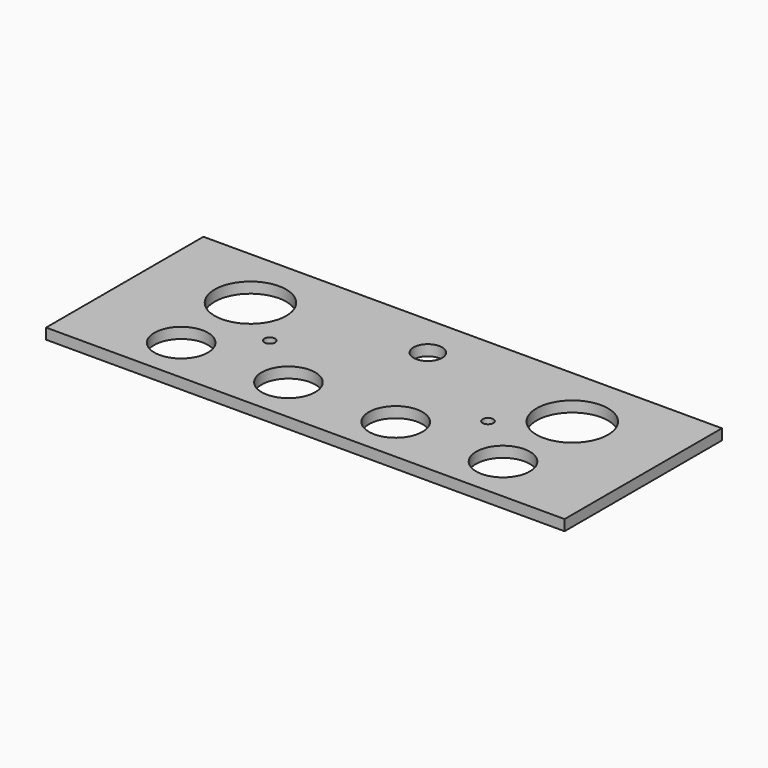
from build123d import *

# Parameters (mm, degrees)
F0_W     = 145
F0_H     = 55
F0_R     = 7.5
F0_R_2   = 1.5
F0_R_3   = 10
F0_R_4   = 4
F1_DEPTH = 3


with BuildPart() as f1:
    # F0 (on Top) → F1 (new body)
    with BuildSketch(Plane.XY):
        with Locations((72.5, -27.5)):
            Rectangle(F0_W, F0_H)
        with Locations((27.5, -42.152297)):
            Circle(F0_R, mode=Mode.SUBTRACT)
        with Locations((57.5, -42.152297)):
            Circle(F0_R, mode=Mode.SUBTRACT)
        with Locations((42, -29.278765)):
            Circle(F0_R_2, mode=Mode.SUBTRACT)
        with Locations((87.5, -42.152297)):
            Circle(F0_R, mode=Mode.SUBTRACT)
        with Locations((117.5, -42.152297)):
            Circle(F0_R, mode=Mode.SUBTRACT)
        with Locations((103, -29.278765)):
            Circle(F0_R_2, mode=Mode.SUBTRACT)
        with Locations((27.5, -17.927479)):
            Circle(F0_R_3, mode=Mode.SUBTRACT)
        with Locations((117.5, -17.927479)):
            Circle(F0_R_3, mode=Mode.SUBTRACT)
        with Locations((72.5, -12.176264)):
            Circle(F0_R_4, mode=Mode.SUBTRACT)
    extrude(amount=F1_DEPTH)


solid = f1.part
